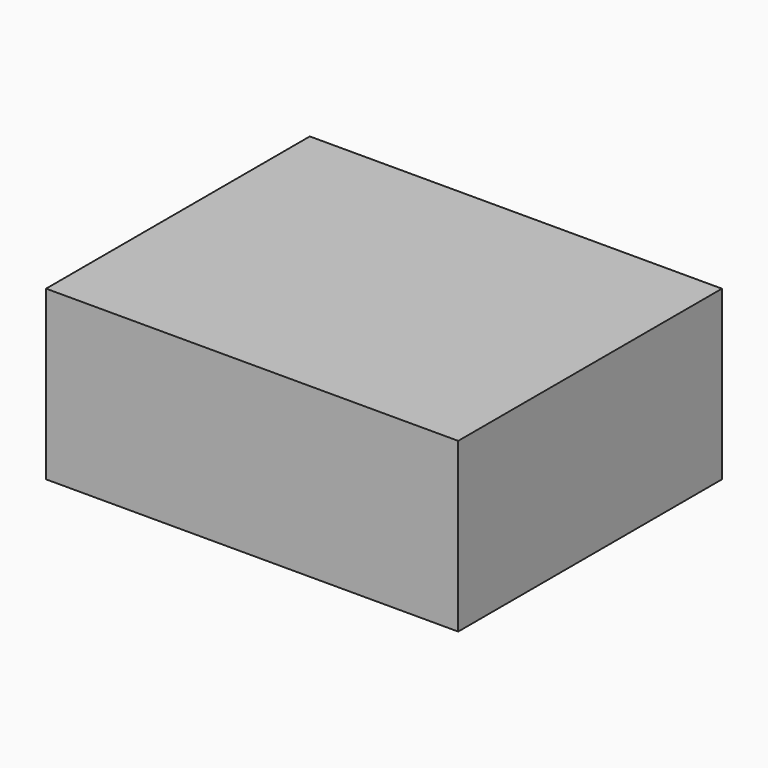
from build123d import *

# Parameters (mm, degrees)
F1_W     = 61.363529
F1_H     = 49.082522
F2_DEPTH = 25


with BuildPart() as f2:
    # F1 (on face) → F2 (new body)
    with BuildSketch(Plane.XY):
        with Locations((-0.608968, -1.090411)):
            Rectangle(F1_W, F1_H)
    extrude(amount=F2_DEPTH)


solid = f2.part
